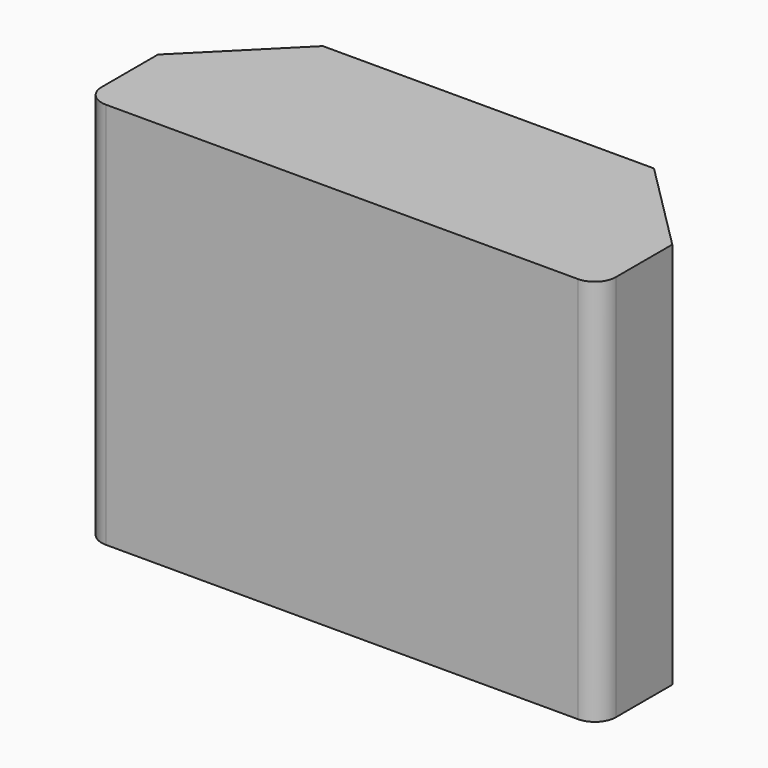
from build123d import *

# Parameters (mm, degrees)
BOX301_W        = 7
BOX301_H        = 2.3
BOX301_DEPTH    = 5
FILLET223_R     = 0.3
CHAMFER043_SIZE = 1.3
CHAMFER044_SIZE = 1.3
BOX300_W        = 7.3
BOX300_H        = 2.6
BOX300_DEPTH    = 5.5
FILLET222_R     = 0.3
CHAMFER041_SIZE = 1.3
CHAMFER042_SIZE = 1.3
BOX302_W        = 5
BOX302_H        = 0.5
BOX302_DEPTH    = 4


with BuildPart() as chamfer044:
    # Box301 → Box301 (new body)
    with BuildSketch(Plane.XY):
        with Locations((3.5, 1.15)):
            Rectangle(BOX301_W, BOX301_H)
    extrude(amount=BOX301_DEPTH)

    # Fillet223
    fillet223_edges = [chamfer044.edges().sort_by_distance(p)[0] for p in [
        (0, 0, 2.5),
        (7, 0, 2.5),
    ]]
    fillet(fillet223_edges, radius=FILLET223_R)

    # Chamfer043
    chamfer043_edges = [chamfer044.edges().sort_by_distance(p)[0] for p in [
        (7, 2.3, 2.5),
    ]]
    chamfer(chamfer043_edges, length=CHAMFER043_SIZE)

    # Chamfer044
    chamfer044_edges = [chamfer044.edges().sort_by_distance(p)[0] for p in [
        (0, 2.3, 2.5),
    ]]
    chamfer(chamfer044_edges, length=CHAMFER044_SIZE)


with BuildPart() as chamfer044_1:
    # Chamfer044 placement: moved
    add(chamfer044.part.moved(Location((0.15, 0.15, 0))))


with BuildPart() as cut347:
    # Box300 → Box300 (new body)
    with BuildSketch(Plane.XY):
        with Locations((3.65, 1.3)):
            Rectangle(BOX300_W, BOX300_H)
    extrude(amount=BOX300_DEPTH)

    # Fillet222
    fillet222_edges = [cut347.edges().sort_by_distance(p)[0] for p in [
        (0, 0, 2.75),
        (7.3, 0, 2.75),
    ]]
    fillet(fillet222_edges, radius=FILLET222_R)

    # Chamfer041
    chamfer041_edges = [cut347.edges().sort_by_distance(p)[0] for p in [
        (7.3, 2.6, 2.75),
    ]]
    chamfer(chamfer041_edges, length=CHAMFER041_SIZE)

    # Chamfer042
    chamfer042_edges = [cut347.edges().sort_by_distance(p)[0] for p in [
        (0, 2.6, 2.75),
    ]]
    chamfer(chamfer042_edges, length=CHAMFER042_SIZE)

    # Cut347: cut Chamfer044
    add(chamfer044_1.part, mode=Mode.SUBTRACT)


with BuildPart() as obj1:
    # Box302 → Box302 (new body)
    with BuildSketch(Plane(origin=(1, 1, 1.5), x_dir=(1, 0, 0), z_dir=(0, 0, 1))):
        with Locations((2.5, 0.25)):
            Rectangle(BOX302_W, BOX302_H)
    extrude(amount=BOX302_DEPTH)

    # Fusion204: union Cut347
    add(cut347.part)


with BuildPart() as obj1_1:
    # Fusion204 placement: moved
    add(obj1.part.moved(Location((-14, -20.6, 2.5))))


solid = obj1_1.part
